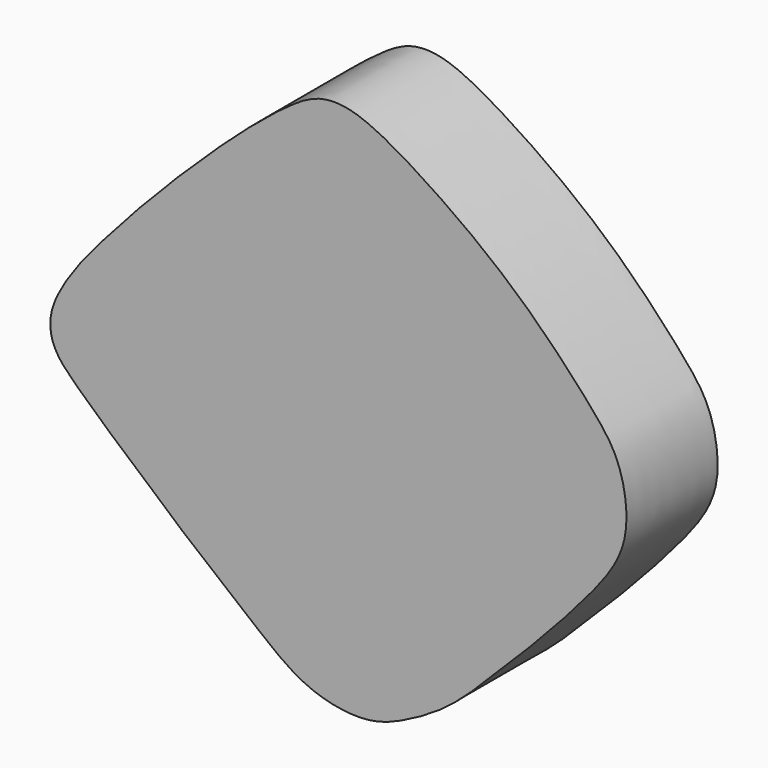
from build123d import *

# Parameters (mm, degrees)
F1_DEPTH = 1.5


with BuildPart() as f1:
    # F0 (on Front) → F1 (new body)
    with BuildSketch(Plane.XZ):
        with BuildLine():
            add(Edge.make_bspline(
                [(-26.1783916503, 6.8662865087), (-26.0026804636, 7.065440312), (-25.5930563149, 7.5297147196), (-24.5264751607, 8.58994935), (-23.7104756791, 9.2633800279), (-23.2951378356, 9.4895280041), (-22.7995860481, 9.4652664458), (-22.0125543552, 9.0153145276), (-21.1681996753, 8.4255829555), (-20.3918382089, 7.7494671588), (-19.7129248659, 7.007963262), (-19.3601757906, 6.5546749761), (-19.2333267519, 5.8646233499), (-19.3814035111, 5.3255348027), (-19.8582644621, 4.7382521052), (-20.4146823703, 4.124174515), (-21.0207021524, 3.5193592906), (-21.6025083454, 2.9332046788), (-22.1972236811, 2.5971388548), (-22.6020397095, 2.4398022513), (-23.0521871784, 2.4442225953), (-23.640210348, 2.6136919573), (-24.3071170822, 3.1877029823), (-24.9471219236, 3.6977864717), (-25.330190465, 4.0203522679), (-25.5142021924, 4.1897064075)],
                knots=[0, 0, 0, 0, 0.042638572, 0.0994005508, 0.1465408048, 0.1765152237, 0.2070772693, 0.250225353, 0.2971356485, 0.3440563464, 0.3895115458, 0.4240768411, 0.4610759186, 0.4947702233, 0.5340251029, 0.5759719676, 0.6184140824, 0.6601781192, 0.6976343465, 0.7272602646, 0.757102343, 0.7923777092, 0.8352140588, 0.8768909173, 0.916346402, 0.916346402, 0.916346402, 0.916346402], degree=3))
            add(Edge.make_bspline(
                [(-26.1783916503, 6.8662865087), (-26.2716275037, 6.7580185181), (-26.4599436183, 6.5393407605), (-26.7157834121, 6.1723821147), (-26.8876392146, 5.8003841792), (-26.8452890756, 5.3901967953), (-26.450444113, 5.0114964213), (-25.8918695409, 4.5085150828), (-25.6304507137, 4.2878378378), (-25.5142021924, 4.1897064075)],
                knots=[0, 0, 0, 0, 0.1348586843, 0.2723851667, 0.4021123958, 0.5265664641, 0.6769175082, 0.8563306923, 1, 1, 1, 1], degree=3))
        make_face()
    extrude(amount=F1_DEPTH)


solid = f1.part
